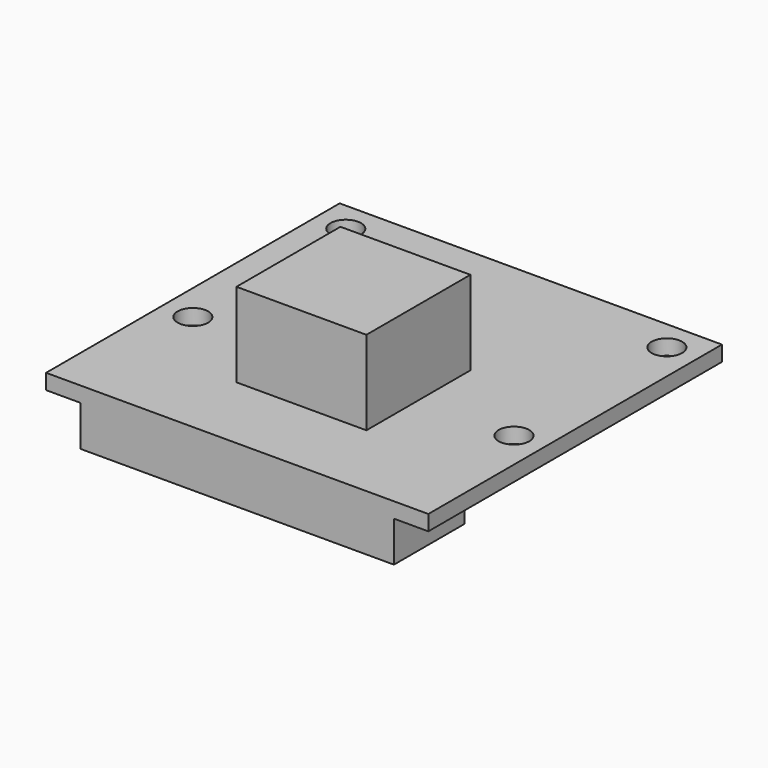
from build123d import *

# Parameters (mm, degrees)
F0_R     = 1
F0_W     = 8.5
F0_H     = 8
F0_H_2   = 0.5
F1_DEPTH = 1
F2_DEPTH = 3.65
F3_DEPTH = 5.5


with BuildPart() as f1:
    # F0 (on Top) → F1 (new body)
    with BuildSketch(Plane.XY):
        Polygon((12.5, -12), (12.5, 12), (-12.5, 12), (-12.5, -12), (-10.25, -12), (-10.25, -6.25), (-4.25, -6.25), (-4.25, 1.75), (4.25, 1.75), (4.25, -6.25), (10.25, -6.25), (10.25, -12), align=None)
        with Locations((-10.5, -2.5)):
            Circle(F0_R, mode=Mode.SUBTRACT)
        with Locations((10.5, -2.5)):
            Circle(F0_R, mode=Mode.SUBTRACT)
        with Locations((-10.5, 10)):
            Circle(F0_R, mode=Mode.SUBTRACT)
        with Locations((10.5, 10)):
            Circle(F0_R, mode=Mode.SUBTRACT)
        Polygon((-10.25, -12), (10.25, -12), (10.25, -6.25), (4.25, -6.25), (4.25, -6.75), (-4.25, -6.75), (-4.25, -6.25), (-10.25, -6.25), align=None)
        with Locations((0, -2.25)):
            Rectangle(F0_W, F0_H)
        with Locations((0, -6.5)):
            Rectangle(F0_W, F0_H_2)
    extrude(amount=-F1_DEPTH)

    # F0 (on Top) → F2 (join)
    with BuildSketch(Plane.XY):
        Polygon((-10.25, -12), (10.25, -12), (10.25, -6.25), (4.25, -6.25), (4.25, -6.75), (-4.25, -6.75), (-4.25, -6.25), (-10.25, -6.25), align=None)
        with Locations((0, -6.5)):
            Rectangle(F0_W, F0_H_2)
    extrude(amount=-F2_DEPTH)

    # F0 (on Top) → F3 (join)
    with BuildSketch(Plane.XY):
        with Locations((0, -2.25)):
            Rectangle(F0_W, F0_H)
        with Locations((0, -6.5)):
            Rectangle(F0_W, F0_H_2)
    extrude(amount=F3_DEPTH)


solid = f1.part
